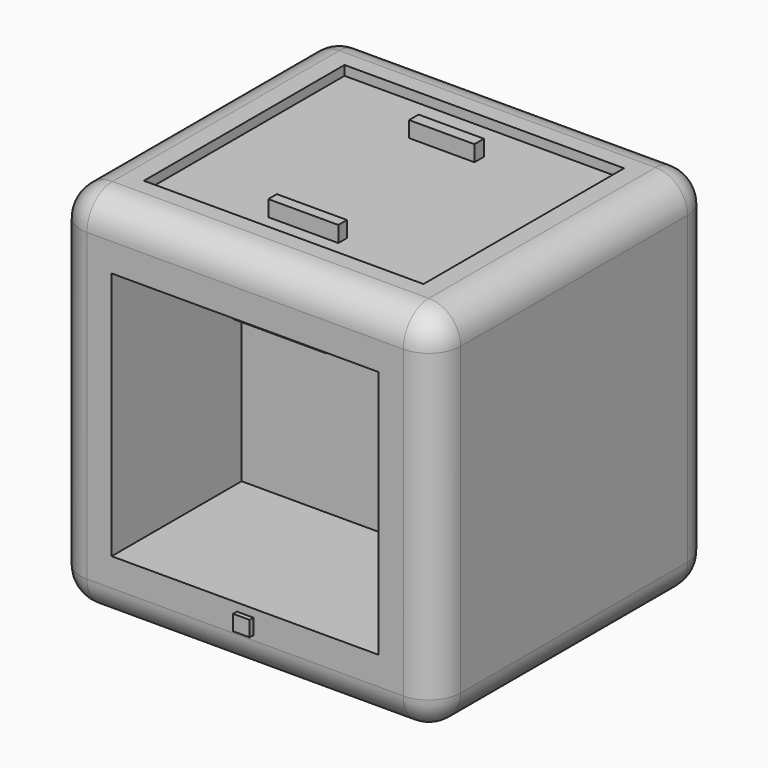
from build123d import *

# Parameters (mm, degrees)
F0_W      = 60.631816
F0_H      = 58.848508
F1_DEPTH  = 27.686
F2_W      = 42.595248
F2_H      = 39.717198
F3_DEPTH  = 25.908
F4_R      = 5.08
F5_R      = 5.08
F6_R      = 5.08
F7_R      = 5.08
F8_R      = 5.08
F9_W      = 14.898214
F9_H      = 10.885901
F10_DEPTH = 5.08
F11_W     = 44.609894
F11_H     = 40.005002
F13_DEPTH = 1.524
F14_W     = 11.176974
F14_H     = 1.716889
F15_DEPTH = 1.27
F16_W     = 10.421328
F16_H     = 1.891898
F17_DEPTH = 1.27
F18_W     = 2.635458
F18_H     = 2.458126
F19_DEPTH = 0.762


with BuildPart() as f1:
    # F0 (on Front) → F1 (new body, symmetric)
    with BuildSketch(Plane.XZ):
        Rectangle(F0_W, F0_H)
    extrude(amount=F1_DEPTH, both=True)

    # F2 (on face) → F3 (cut, symmetric)
    with BuildSketch(Plane.XZ.offset(27.686)):
        Rectangle(F2_W, F2_H)
    extrude(amount=F3_DEPTH, both=True, mode=Mode.SUBTRACT)

    # F4
    f4_edges = [f1.edges().sort_by_distance(p)[0] for p in [
        (0, -27.686, 29.424254),
    ]]
    fillet(f4_edges, radius=F4_R)

    # F5
    f5_edges = [f1.edges().sort_by_distance(p)[0] for p in [
        (30.315908, 2.54, 29.424254),
    ]]
    fillet(f5_edges, radius=F5_R)

    # F6
    f6_edges = [f1.edges().sort_by_distance(p)[0] for p in [
        (-2.54, -27.686, -29.424254),
    ]]
    fillet(f6_edges, radius=F6_R)

    # F7
    f7_edges = [f1.edges().sort_by_distance(p)[0] for p in [
        (-30.315908, 27.686, 0),
    ]]
    fillet(f7_edges, radius=F7_R)

    # F8
    f8_edges = [f1.edges().sort_by_distance(p)[0] for p in [
        (-30.315908, 0, -29.424254),
    ]]
    fillet(f8_edges, radius=F8_R)

    # F9 (on face) → F10 (join)
    with BuildSketch(Plane(origin=(0, 0, 19.858599), x_dir=(1, 0, 0), z_dir=(0, 0, -1))):
        with Locations((-0.502687, 14.775745)):
            Rectangle(F9_W, F9_H)
    extrude(amount=F10_DEPTH)

    # F11 (on face) → F13 (cut, symmetric)
    with BuildSketch(Plane.XY.offset(29.424254)):
        Rectangle(F11_W, F11_H)
    extrude(amount=F13_DEPTH, both=True, mode=Mode.SUBTRACT)


with BuildPart() as f15:
    # F14 (on face) → F15 (new body, symmetric)
    with BuildSketch(Plane.XY.offset(29.424254)):
        with Locations((0, -15.228529)):
            Rectangle(F14_W, F14_H)
    extrude(amount=F15_DEPTH, both=True)


with BuildPart() as f17:
    # F16 (on face) → F17 (new body, symmetric)
    with BuildSketch(Plane.XY.offset(29.424254)):
        with Locations((0, 12.468232)):
            Rectangle(F16_W, F16_H)
    extrude(amount=F17_DEPTH, both=True)


with BuildPart() as f19:
    # F18 (on face) → F19 (new body)
    with BuildSketch(Plane.XZ.offset(27.686)):
        with Locations((0, -22.367768)):
            Rectangle(F18_W, F18_H)
    extrude(amount=F19_DEPTH)


solid = Compound([f1.part, f15.part, f17.part, f19.part])
